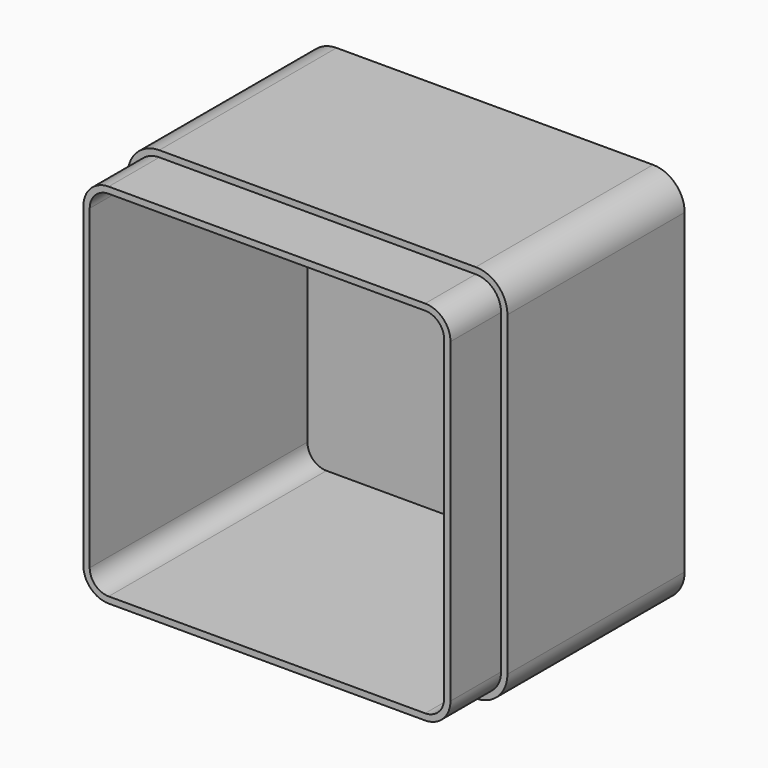
from build123d import *

# Parameters (mm, degrees)
F0_W     = 120
F0_H     = 120
F1_DEPTH = 90
F2_R     = 10
F3_T     = -4
F5_DEPTH = 20


with BuildPart() as f1:
    # F0 (on Front) → F1 (new body)
    with BuildSketch(Plane.XZ):
        with Locations((-60, 60)):
            Rectangle(F0_W, F0_H)
    extrude(amount=F1_DEPTH)

    # F2
    f2_edges = [f1.edges().sort_by_distance(p)[0] for p in [
        (0, -45, 120),
        (-120, -45, 120),
        (0, -45, 0),
        (-120, -45, 0),
    ]]
    fillet(f2_edges, radius=F2_R)

    # F3
    f3_openings = [f1.faces().sort_by_distance(p)[0] for p in [
        (-60, -90, 60),
    ]]
    offset(amount=F3_T, openings=f3_openings)

    # F4 (on face) → F5 (cut)
    with BuildSketch(Plane.XZ.offset(90)):
        with BuildLine():
            Line((-120, 110), (-120, 10))
            ThreePointArc((-120, 10), (-117.071068, 2.928932), (-110, 0))
            Line((-110, 0), (-10, 0))
            ThreePointArc((-10, 0), (-2.928932, 2.928932), (0, 10))
            Line((0, 10), (0, 110))
            ThreePointArc((0, 110), (-2.928932, 117.071068), (-10, 120))
            Line((-10, 120), (-110, 120))
            ThreePointArc((-110, 120), (-117.071068, 117.071068), (-120, 110))
        make_face()
        with BuildLine():
            ThreePointArc((-110, 2), (-115.656854, 4.343146), (-118, 10))
            Line((-118, 10), (-118, 110))
            ThreePointArc((-118, 110), (-115.656854, 115.656854), (-110, 118))
            Line((-110, 118), (-10, 118))
            ThreePointArc((-10, 118), (-4.343146, 115.656854), (-2, 110))
            Line((-2, 110), (-2, 10))
            ThreePointArc((-2, 10), (-4.343146, 4.343146), (-10, 2))
            Line((-10, 2), (-110, 2))
        make_face(mode=Mode.SUBTRACT)
    extrude(amount=-F5_DEPTH, mode=Mode.SUBTRACT)


solid = f1.part
